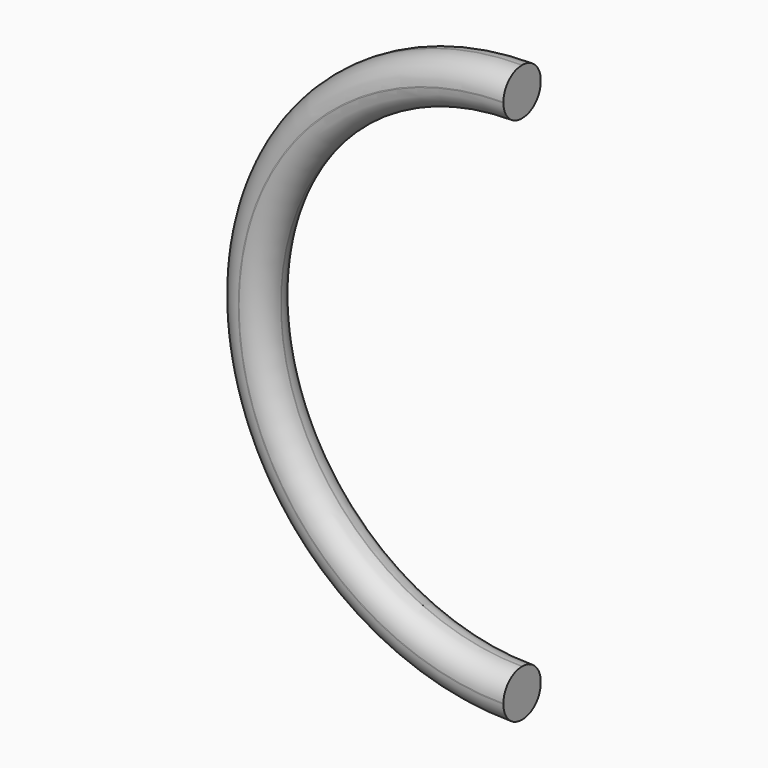
from build123d import *

# Parameters (mm, degrees)
F1_DEPTH = 1.0287
F2_R     = 1.01346


with BuildPart() as f1:
    # F0 (on Front) → F1 (new body, symmetric)
    with BuildSketch(Plane.XZ):
        with BuildLine():
            Line((0, 10.634243), (0, 12.7))
            ThreePointArc((0, 12.7), (-12.7, 0), (0, -12.7))
            Line((0, -12.7), (0, -10.634243))
            ThreePointArc((0, -10.634243), (-10.634243, 0), (0, 10.634243))
        make_face()
    extrude(amount=F1_DEPTH, both=True)

    # F2
    f2_edges = [f1.edges().sort_by_distance(p)[0] for p in [
        (-12.7, -1.0287, 0),
        (-10.634243, -1.0287, 0),
        (-10.634243, 1.0287, 0),
        (-12.7, 1.0287, 0),
    ]]
    fillet(f2_edges, radius=F2_R)


solid = f1.part
